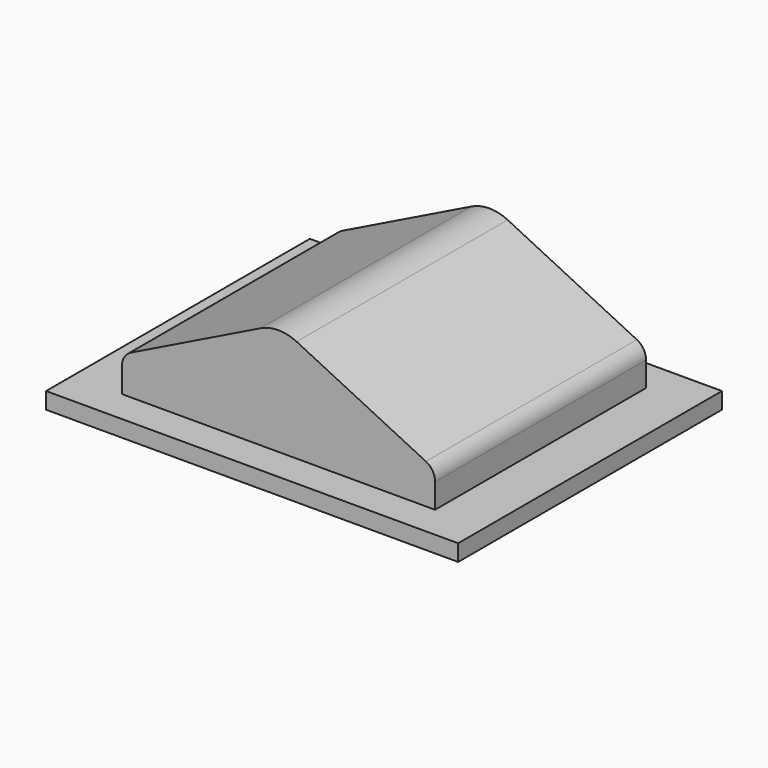
from build123d import *

# Parameters (mm, degrees)
F0_W     = 25
F0_H     = 20
F1_DEPTH = 1
F3_DEPTH = 8


with BuildPart() as f1:
    # F0 (on Top) → F1 (new body)
    with BuildSketch(Plane.XY):
        Rectangle(F0_W, F0_H)
    extrude(amount=F1_DEPTH)

    # F2 (on Front) → F3 (join, symmetric)
    with BuildSketch(Plane.XZ):
        with BuildLine():
            Line((8.940514, 3.397746), (1.101284, 7.244365))
            ThreePointArc((1.101284, 7.244365), (0, 7.5), (-1.101284, 7.244365))
            Line((-1.101284, 7.244365), (-8.940514, 3.397746))
            ThreePointArc((-8.940514, 3.397746), (-9.348679, 3.028908), (-9.5, 2.5))
            Line((-9.5, 2.5), (-9.5, 0.999067))
            Line((-9.5, 0.999067), (9.5, 0.999067))
            Line((9.5, 0.999067), (9.5, 2.5))
            ThreePointArc((9.5, 2.5), (9.348679, 3.028908), (8.940514, 3.397746))
        make_face()
    extrude(amount=F3_DEPTH, both=True)


solid = f1.part
